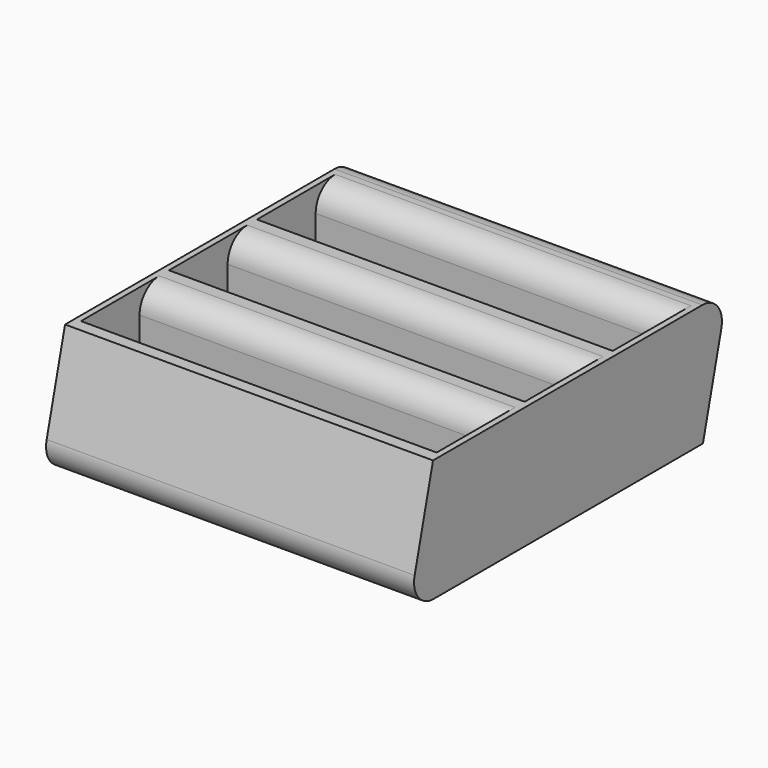
from build123d import *

# Parameters (mm, degrees)
F0_W     = 60.2
F0_H     = 60.2
F2_W     = 60.2
F2_H     = 60.2
F4_W     = 58.2
F4_H     = 12
F5_DEPTH = 18
F6_R     = 4
F7_SIZE  = 3


with BuildPart() as f3:
    # F0 (on Top) → F3 section 0
    with BuildSketch(Plane.XY):
        Rectangle(F0_W, F0_H)
    # F2 (on offset) → F3 section 1
    with BuildSketch(Plane.XY.offset(20)):
        with Locations((0, 5)):
            Rectangle(F2_W, F2_H)
    loft()

    # F4 (on face) → F5 (cut)
    with BuildSketch(Plane.XY.offset(20)):
        with Locations((0, -17.1)):
            Rectangle(F4_W, F4_H)
        with Locations((0, 0.9)):
            Rectangle(F4_W, F4_H)
        with Locations((0, 18.9)):
            Rectangle(F4_W, F4_H)
    extrude(amount=-F5_DEPTH, mode=Mode.SUBTRACT)

    # F6
    f6_edges = [f3.edges().sort_by_distance(p)[0] for p in [
        (0, -30.1, 0),
        (0, 35.1, 20),
        (0, -11.1, 20),
        (0, 6.9, 20),
        (0, 24.9, 20),
    ]]
    fillet(f6_edges, radius=F6_R)

    # F7
    f7_edges = [f3.edges().sort_by_distance(p)[0] for p in [
        (0, 24.9, 2),
        (0, 6.9, 2),
        (0, -11.1, 2),
    ]]
    chamfer(f7_edges, length=F7_SIZE)


solid = f3.part
